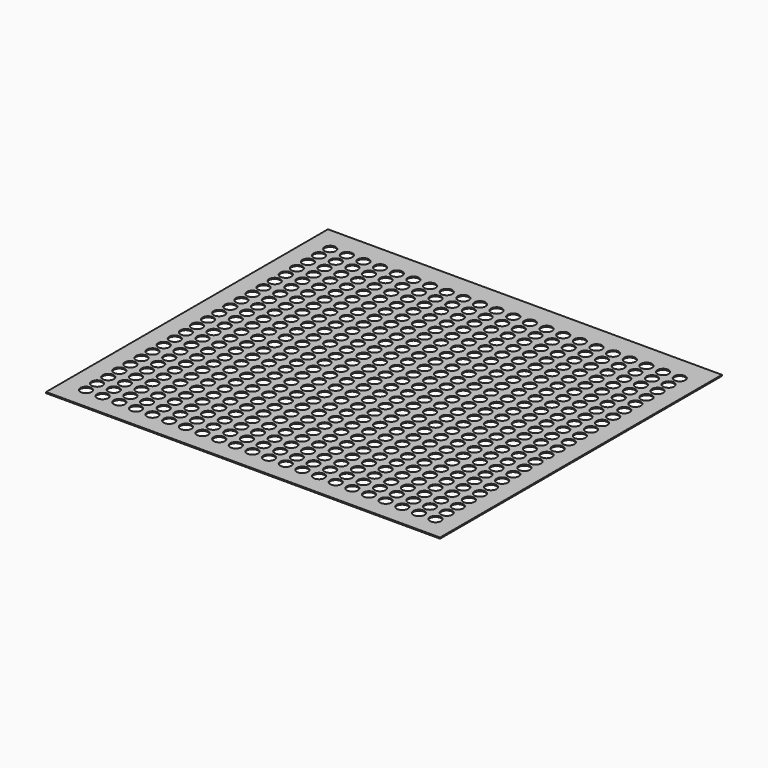
from build123d import *

# Parameters (mm, degrees)
F0_W     = 710
F0_H     = 635
F0_R     = 10
F1_DEPTH = 2


with BuildPart() as f1:
    # F0 (on Top) → F1 (new body)
    with BuildSketch(Plane.XY):
        Rectangle(F0_W, F0_H)
        with Locations((-315, -277.5)):
            Circle(F0_R, mode=Mode.SUBTRACT)
        with Locations((-315, -252.5)):
            Circle(F0_R, mode=Mode.SUBTRACT)
        with Locations((-285, -277.5)):
            Circle(F0_R, mode=Mode.SUBTRACT)
        with Locations((-285, -252.5)):
            Circle(F0_R, mode=Mode.SUBTRACT)
        with Locations((-255, -277.5)):
            Circle(F0_R, mode=Mode.SUBTRACT)
        with Locations((-225, -277.5)):
            Circle(F0_R, mode=Mode.SUBTRACT)
        with Locations((-255, -252.5)):
            Circle(F0_R, mode=Mode.SUBTRACT)
        with Locations((-225, -252.5)):
            Circle(F0_R, mode=Mode.SUBTRACT)
        with Locations((-195, -277.5)):
            Circle(F0_R, mode=Mode.SUBTRACT)
        with Locations((-195, -252.5)):
            Circle(F0_R, mode=Mode.SUBTRACT)
        with Locations((-315, -227.5)):
            Circle(F0_R, mode=Mode.SUBTRACT)
        with Locations((-315, -202.5)):
            Circle(F0_R, mode=Mode.SUBTRACT)
        with Locations((-285, -227.5)):
            Circle(F0_R, mode=Mode.SUBTRACT)
        with Locations((-285, -202.5)):
            Circle(F0_R, mode=Mode.SUBTRACT)
        with Locations((-315, -177.5)):
            Circle(F0_R, mode=Mode.SUBTRACT)
        with Locations((-285, -177.5)):
            Circle(F0_R, mode=Mode.SUBTRACT)
        with Locations((-255, -227.5)):
            Circle(F0_R, mode=Mode.SUBTRACT)
        with Locations((-225, -227.5)):
            Circle(F0_R, mode=Mode.SUBTRACT)
        with Locations((-255, -202.5)):
            Circle(F0_R, mode=Mode.SUBTRACT)
        with Locations((-225, -202.5)):
            Circle(F0_R, mode=Mode.SUBTRACT)
        with Locations((-195, -227.5)):
            Circle(F0_R, mode=Mode.SUBTRACT)
        with Locations((-195, -202.5)):
            Circle(F0_R, mode=Mode.SUBTRACT)
        with Locations((-255, -177.5)):
            Circle(F0_R, mode=Mode.SUBTRACT)
        with Locations((-225, -177.5)):
            Circle(F0_R, mode=Mode.SUBTRACT)
        with Locations((-195, -177.5)):
            Circle(F0_R, mode=Mode.SUBTRACT)
        with Locations((-165, -277.5)):
            Circle(F0_R, mode=Mode.SUBTRACT)
        with Locations((-135, -277.5)):
            Circle(F0_R, mode=Mode.SUBTRACT)
        with Locations((-165, -252.5)):
            Circle(F0_R, mode=Mode.SUBTRACT)
        with Locations((-135, -252.5)):
            Circle(F0_R, mode=Mode.SUBTRACT)
        with Locations((-105, -277.5)):
            Circle(F0_R, mode=Mode.SUBTRACT)
        with Locations((-105, -252.5)):
            Circle(F0_R, mode=Mode.SUBTRACT)
        with Locations((-75, -277.5)):
            Circle(F0_R, mode=Mode.SUBTRACT)
        with Locations((-45, -277.5)):
            Circle(F0_R, mode=Mode.SUBTRACT)
        with Locations((-75, -252.5)):
            Circle(F0_R, mode=Mode.SUBTRACT)
        with Locations((-45, -252.5)):
            Circle(F0_R, mode=Mode.SUBTRACT)
        with Locations((-15, -277.5)):
            Circle(F0_R, mode=Mode.SUBTRACT)
        with Locations((-15, -252.5)):
            Circle(F0_R, mode=Mode.SUBTRACT)
        with Locations((-165, -227.5)):
            Circle(F0_R, mode=Mode.SUBTRACT)
        with Locations((-135, -227.5)):
            Circle(F0_R, mode=Mode.SUBTRACT)
        with Locations((-165, -202.5)):
            Circle(F0_R, mode=Mode.SUBTRACT)
        with Locations((-135, -202.5)):
            Circle(F0_R, mode=Mode.SUBTRACT)
        with Locations((-105, -227.5)):
            Circle(F0_R, mode=Mode.SUBTRACT)
        with Locations((-105, -202.5)):
            Circle(F0_R, mode=Mode.SUBTRACT)
        with Locations((-165, -177.5)):
            Circle(F0_R, mode=Mode.SUBTRACT)
        with Locations((-135, -177.5)):
            Circle(F0_R, mode=Mode.SUBTRACT)
        with Locations((-105, -177.5)):
            Circle(F0_R, mode=Mode.SUBTRACT)
        with Locations((-75, -227.5)):
            Circle(F0_R, mode=Mode.SUBTRACT)
        with Locations((-45, -227.5)):
            Circle(F0_R, mode=Mode.SUBTRACT)
        with Locations((-75, -202.5)):
            Circle(F0_R, mode=Mode.SUBTRACT)
        with Locations((-45, -202.5)):
            Circle(F0_R, mode=Mode.SUBTRACT)
        with Locations((-15, -227.5)):
            Circle(F0_R, mode=Mode.SUBTRACT)
        with Locations((-15, -202.5)):
            Circle(F0_R, mode=Mode.SUBTRACT)
        with Locations((-75, -177.5)):
            Circle(F0_R, mode=Mode.SUBTRACT)
        with Locations((-45, -177.5)):
            Circle(F0_R, mode=Mode.SUBTRACT)
        with Locations((-15, -177.5)):
            Circle(F0_R, mode=Mode.SUBTRACT)
        with Locations((-315, -152.5)):
            Circle(F0_R, mode=Mode.SUBTRACT)
        with Locations((-315, -127.5)):
            Circle(F0_R, mode=Mode.SUBTRACT)
        with Locations((-285, -152.5)):
            Circle(F0_R, mode=Mode.SUBTRACT)
        with Locations((-285, -127.5)):
            Circle(F0_R, mode=Mode.SUBTRACT)
        with Locations((-315, -102.5)):
            Circle(F0_R, mode=Mode.SUBTRACT)
        with Locations((-285, -102.5)):
            Circle(F0_R, mode=Mode.SUBTRACT)
        with Locations((-255, -152.5)):
            Circle(F0_R, mode=Mode.SUBTRACT)
        with Locations((-225, -152.5)):
            Circle(F0_R, mode=Mode.SUBTRACT)
        with Locations((-255, -127.5)):
            Circle(F0_R, mode=Mode.SUBTRACT)
        with Locations((-225, -127.5)):
            Circle(F0_R, mode=Mode.SUBTRACT)
        with Locations((-195, -152.5)):
            Circle(F0_R, mode=Mode.SUBTRACT)
        with Locations((-195, -127.5)):
            Circle(F0_R, mode=Mode.SUBTRACT)
        with Locations((-255, -102.5)):
            Circle(F0_R, mode=Mode.SUBTRACT)
        with Locations((-225, -102.5)):
            Circle(F0_R, mode=Mode.SUBTRACT)
        with Locations((-195, -102.5)):
            Circle(F0_R, mode=Mode.SUBTRACT)
        with Locations((-315, -77.5)):
            Circle(F0_R, mode=Mode.SUBTRACT)
        with Locations((-315, -52.5)):
            Circle(F0_R, mode=Mode.SUBTRACT)
        with Locations((-285, -77.5)):
            Circle(F0_R, mode=Mode.SUBTRACT)
        with Locations((-285, -52.5)):
            Circle(F0_R, mode=Mode.SUBTRACT)
        with Locations((-315, -27.5)):
            Circle(F0_R, mode=Mode.SUBTRACT)
        with Locations((-315, -2.5)):
            Circle(F0_R, mode=Mode.SUBTRACT)
        with Locations((-285, -27.5)):
            Circle(F0_R, mode=Mode.SUBTRACT)
        with Locations((-285, -2.5)):
            Circle(F0_R, mode=Mode.SUBTRACT)
        with Locations((-255, -77.5)):
            Circle(F0_R, mode=Mode.SUBTRACT)
        with Locations((-225, -77.5)):
            Circle(F0_R, mode=Mode.SUBTRACT)
        with Locations((-255, -52.5)):
            Circle(F0_R, mode=Mode.SUBTRACT)
        with Locations((-225, -52.5)):
            Circle(F0_R, mode=Mode.SUBTRACT)
        with Locations((-195, -77.5)):
            Circle(F0_R, mode=Mode.SUBTRACT)
        with Locations((-195, -52.5)):
            Circle(F0_R, mode=Mode.SUBTRACT)
        with Locations((-255, -27.5)):
            Circle(F0_R, mode=Mode.SUBTRACT)
        with Locations((-225, -27.5)):
            Circle(F0_R, mode=Mode.SUBTRACT)
        with Locations((-255, -2.5)):
            Circle(F0_R, mode=Mode.SUBTRACT)
        with Locations((-225, -2.5)):
            Circle(F0_R, mode=Mode.SUBTRACT)
        with Locations((-195, -27.5)):
            Circle(F0_R, mode=Mode.SUBTRACT)
        with Locations((-195, -2.5)):
            Circle(F0_R, mode=Mode.SUBTRACT)
        with Locations((-165, -152.5)):
            Circle(F0_R, mode=Mode.SUBTRACT)
        with Locations((-135, -152.5)):
            Circle(F0_R, mode=Mode.SUBTRACT)
        with Locations((-165, -127.5)):
            Circle(F0_R, mode=Mode.SUBTRACT)
        with Locations((-135, -127.5)):
            Circle(F0_R, mode=Mode.SUBTRACT)
        with Locations((-105, -152.5)):
            Circle(F0_R, mode=Mode.SUBTRACT)
        with Locations((-105, -127.5)):
            Circle(F0_R, mode=Mode.SUBTRACT)
        with Locations((-165, -102.5)):
            Circle(F0_R, mode=Mode.SUBTRACT)
        with Locations((-135, -102.5)):
            Circle(F0_R, mode=Mode.SUBTRACT)
        with Locations((-105, -102.5)):
            Circle(F0_R, mode=Mode.SUBTRACT)
        with Locations((-75, -152.5)):
            Circle(F0_R, mode=Mode.SUBTRACT)
        with Locations((-45, -152.5)):
            Circle(F0_R, mode=Mode.SUBTRACT)
        with Locations((-75, -127.5)):
            Circle(F0_R, mode=Mode.SUBTRACT)
        with Locations((-45, -127.5)):
            Circle(F0_R, mode=Mode.SUBTRACT)
        with Locations((-15, -152.5)):
            Circle(F0_R, mode=Mode.SUBTRACT)
        with Locations((-15, -127.5)):
            Circle(F0_R, mode=Mode.SUBTRACT)
        with Locations((-75, -102.5)):
            Circle(F0_R, mode=Mode.SUBTRACT)
        with Locations((-45, -102.5)):
            Circle(F0_R, mode=Mode.SUBTRACT)
        with Locations((-15, -102.5)):
            Circle(F0_R, mode=Mode.SUBTRACT)
        with Locations((-165, -77.5)):
            Circle(F0_R, mode=Mode.SUBTRACT)
        with Locations((-135, -77.5)):
            Circle(F0_R, mode=Mode.SUBTRACT)
        with Locations((-165, -52.5)):
            Circle(F0_R, mode=Mode.SUBTRACT)
        with Locations((-135, -52.5)):
            Circle(F0_R, mode=Mode.SUBTRACT)
        with Locations((-105, -77.5)):
            Circle(F0_R, mode=Mode.SUBTRACT)
        with Locations((-105, -52.5)):
            Circle(F0_R, mode=Mode.SUBTRACT)
        with Locations((-165, -27.5)):
            Circle(F0_R, mode=Mode.SUBTRACT)
        with Locations((-135, -27.5)):
            Circle(F0_R, mode=Mode.SUBTRACT)
        with Locations((-165, -2.5)):
            Circle(F0_R, mode=Mode.SUBTRACT)
        with Locations((-135, -2.5)):
            Circle(F0_R, mode=Mode.SUBTRACT)
        with Locations((-105, -27.5)):
            Circle(F0_R, mode=Mode.SUBTRACT)
        with Locations((-105, -2.5)):
            Circle(F0_R, mode=Mode.SUBTRACT)
        with Locations((-75, -77.5)):
            Circle(F0_R, mode=Mode.SUBTRACT)
        with Locations((-45, -77.5)):
            Circle(F0_R, mode=Mode.SUBTRACT)
        with Locations((-75, -52.5)):
            Circle(F0_R, mode=Mode.SUBTRACT)
        with Locations((-45, -52.5)):
            Circle(F0_R, mode=Mode.SUBTRACT)
        with Locations((-15, -77.5)):
            Circle(F0_R, mode=Mode.SUBTRACT)
        with Locations((-15, -52.5)):
            Circle(F0_R, mode=Mode.SUBTRACT)
        with Locations((-75, -27.5)):
            Circle(F0_R, mode=Mode.SUBTRACT)
        with Locations((-45, -27.5)):
            Circle(F0_R, mode=Mode.SUBTRACT)
        with Locations((-75, -2.5)):
            Circle(F0_R, mode=Mode.SUBTRACT)
        with Locations((-45, -2.5)):
            Circle(F0_R, mode=Mode.SUBTRACT)
        with Locations((-15, -27.5)):
            Circle(F0_R, mode=Mode.SUBTRACT)
        with Locations((-15, -2.5)):
            Circle(F0_R, mode=Mode.SUBTRACT)
        with Locations((15, -277.5)):
            Circle(F0_R, mode=Mode.SUBTRACT)
        with Locations((15, -252.5)):
            Circle(F0_R, mode=Mode.SUBTRACT)
        with Locations((45, -277.5)):
            Circle(F0_R, mode=Mode.SUBTRACT)
        with Locations((75, -277.5)):
            Circle(F0_R, mode=Mode.SUBTRACT)
        with Locations((45, -252.5)):
            Circle(F0_R, mode=Mode.SUBTRACT)
        with Locations((75, -252.5)):
            Circle(F0_R, mode=Mode.SUBTRACT)
        with Locations((105, -277.5)):
            Circle(F0_R, mode=Mode.SUBTRACT)
        with Locations((105, -252.5)):
            Circle(F0_R, mode=Mode.SUBTRACT)
        with Locations((135, -277.5)):
            Circle(F0_R, mode=Mode.SUBTRACT)
        with Locations((165, -277.5)):
            Circle(F0_R, mode=Mode.SUBTRACT)
        with Locations((135, -252.5)):
            Circle(F0_R, mode=Mode.SUBTRACT)
        with Locations((165, -252.5)):
            Circle(F0_R, mode=Mode.SUBTRACT)
        with Locations((15, -227.5)):
            Circle(F0_R, mode=Mode.SUBTRACT)
        with Locations((15, -202.5)):
            Circle(F0_R, mode=Mode.SUBTRACT)
        with Locations((45, -227.5)):
            Circle(F0_R, mode=Mode.SUBTRACT)
        with Locations((75, -227.5)):
            Circle(F0_R, mode=Mode.SUBTRACT)
        with Locations((45, -202.5)):
            Circle(F0_R, mode=Mode.SUBTRACT)
        with Locations((75, -202.5)):
            Circle(F0_R, mode=Mode.SUBTRACT)
        with Locations((15, -177.5)):
            Circle(F0_R, mode=Mode.SUBTRACT)
        with Locations((45, -177.5)):
            Circle(F0_R, mode=Mode.SUBTRACT)
        with Locations((75, -177.5)):
            Circle(F0_R, mode=Mode.SUBTRACT)
        with Locations((105, -227.5)):
            Circle(F0_R, mode=Mode.SUBTRACT)
        with Locations((105, -202.5)):
            Circle(F0_R, mode=Mode.SUBTRACT)
        with Locations((135, -227.5)):
            Circle(F0_R, mode=Mode.SUBTRACT)
        with Locations((165, -227.5)):
            Circle(F0_R, mode=Mode.SUBTRACT)
        with Locations((135, -202.5)):
            Circle(F0_R, mode=Mode.SUBTRACT)
        with Locations((165, -202.5)):
            Circle(F0_R, mode=Mode.SUBTRACT)
        with Locations((105, -177.5)):
            Circle(F0_R, mode=Mode.SUBTRACT)
        with Locations((135, -177.5)):
            Circle(F0_R, mode=Mode.SUBTRACT)
        with Locations((165, -177.5)):
            Circle(F0_R, mode=Mode.SUBTRACT)
        with Locations((195, -277.5)):
            Circle(F0_R, mode=Mode.SUBTRACT)
        with Locations((195, -252.5)):
            Circle(F0_R, mode=Mode.SUBTRACT)
        with Locations((225, -277.5)):
            Circle(F0_R, mode=Mode.SUBTRACT)
        with Locations((255, -277.5)):
            Circle(F0_R, mode=Mode.SUBTRACT)
        with Locations((225, -252.5)):
            Circle(F0_R, mode=Mode.SUBTRACT)
        with Locations((255, -252.5)):
            Circle(F0_R, mode=Mode.SUBTRACT)
        with Locations((285, -277.5)):
            Circle(F0_R, mode=Mode.SUBTRACT)
        with Locations((285, -252.5)):
            Circle(F0_R, mode=Mode.SUBTRACT)
        with Locations((315, -277.5)):
            Circle(F0_R, mode=Mode.SUBTRACT)
        with Locations((315, -252.5)):
            Circle(F0_R, mode=Mode.SUBTRACT)
        with Locations((195, -227.5)):
            Circle(F0_R, mode=Mode.SUBTRACT)
        with Locations((195, -202.5)):
            Circle(F0_R, mode=Mode.SUBTRACT)
        with Locations((225, -227.5)):
            Circle(F0_R, mode=Mode.SUBTRACT)
        with Locations((255, -227.5)):
            Circle(F0_R, mode=Mode.SUBTRACT)
        with Locations((225, -202.5)):
            Circle(F0_R, mode=Mode.SUBTRACT)
        with Locations((255, -202.5)):
            Circle(F0_R, mode=Mode.SUBTRACT)
        with Locations((195, -177.5)):
            Circle(F0_R, mode=Mode.SUBTRACT)
        with Locations((225, -177.5)):
            Circle(F0_R, mode=Mode.SUBTRACT)
        with Locations((255, -177.5)):
            Circle(F0_R, mode=Mode.SUBTRACT)
        with Locations((285, -227.5)):
            Circle(F0_R, mode=Mode.SUBTRACT)
        with Locations((285, -202.5)):
            Circle(F0_R, mode=Mode.SUBTRACT)
        with Locations((315, -227.5)):
            Circle(F0_R, mode=Mode.SUBTRACT)
        with Locations((315, -202.5)):
            Circle(F0_R, mode=Mode.SUBTRACT)
        with Locations((285, -177.5)):
            Circle(F0_R, mode=Mode.SUBTRACT)
        with Locations((315, -177.5)):
            Circle(F0_R, mode=Mode.SUBTRACT)
        with Locations((15, -152.5)):
            Circle(F0_R, mode=Mode.SUBTRACT)
        with Locations((15, -127.5)):
            Circle(F0_R, mode=Mode.SUBTRACT)
        with Locations((45, -152.5)):
            Circle(F0_R, mode=Mode.SUBTRACT)
        with Locations((75, -152.5)):
            Circle(F0_R, mode=Mode.SUBTRACT)
        with Locations((45, -127.5)):
            Circle(F0_R, mode=Mode.SUBTRACT)
        with Locations((75, -127.5)):
            Circle(F0_R, mode=Mode.SUBTRACT)
        with Locations((15, -102.5)):
            Circle(F0_R, mode=Mode.SUBTRACT)
        with Locations((45, -102.5)):
            Circle(F0_R, mode=Mode.SUBTRACT)
        with Locations((75, -102.5)):
            Circle(F0_R, mode=Mode.SUBTRACT)
        with Locations((105, -152.5)):
            Circle(F0_R, mode=Mode.SUBTRACT)
        with Locations((105, -127.5)):
            Circle(F0_R, mode=Mode.SUBTRACT)
        with Locations((135, -152.5)):
            Circle(F0_R, mode=Mode.SUBTRACT)
        with Locations((165, -152.5)):
            Circle(F0_R, mode=Mode.SUBTRACT)
        with Locations((135, -127.5)):
            Circle(F0_R, mode=Mode.SUBTRACT)
        with Locations((165, -127.5)):
            Circle(F0_R, mode=Mode.SUBTRACT)
        with Locations((105, -102.5)):
            Circle(F0_R, mode=Mode.SUBTRACT)
        with Locations((135, -102.5)):
            Circle(F0_R, mode=Mode.SUBTRACT)
        with Locations((165, -102.5)):
            Circle(F0_R, mode=Mode.SUBTRACT)
        with Locations((15, -77.5)):
            Circle(F0_R, mode=Mode.SUBTRACT)
        with Locations((15, -52.5)):
            Circle(F0_R, mode=Mode.SUBTRACT)
        with Locations((45, -77.5)):
            Circle(F0_R, mode=Mode.SUBTRACT)
        with Locations((75, -77.5)):
            Circle(F0_R, mode=Mode.SUBTRACT)
        with Locations((45, -52.5)):
            Circle(F0_R, mode=Mode.SUBTRACT)
        with Locations((75, -52.5)):
            Circle(F0_R, mode=Mode.SUBTRACT)
        with Locations((15, -27.5)):
            Circle(F0_R, mode=Mode.SUBTRACT)
        with Locations((15, -2.5)):
            Circle(F0_R, mode=Mode.SUBTRACT)
        with Locations((45, -27.5)):
            Circle(F0_R, mode=Mode.SUBTRACT)
        with Locations((75, -27.5)):
            Circle(F0_R, mode=Mode.SUBTRACT)
        with Locations((45, -2.5)):
            Circle(F0_R, mode=Mode.SUBTRACT)
        with Locations((75, -2.5)):
            Circle(F0_R, mode=Mode.SUBTRACT)
        with Locations((105, -77.5)):
            Circle(F0_R, mode=Mode.SUBTRACT)
        with Locations((105, -52.5)):
            Circle(F0_R, mode=Mode.SUBTRACT)
        with Locations((135, -77.5)):
            Circle(F0_R, mode=Mode.SUBTRACT)
        with Locations((165, -77.5)):
            Circle(F0_R, mode=Mode.SUBTRACT)
        with Locations((135, -52.5)):
            Circle(F0_R, mode=Mode.SUBTRACT)
        with Locations((165, -52.5)):
            Circle(F0_R, mode=Mode.SUBTRACT)
        with Locations((105, -27.5)):
            Circle(F0_R, mode=Mode.SUBTRACT)
        with Locations((105, -2.5)):
            Circle(F0_R, mode=Mode.SUBTRACT)
        with Locations((135, -27.5)):
            Circle(F0_R, mode=Mode.SUBTRACT)
        with Locations((165, -27.5)):
            Circle(F0_R, mode=Mode.SUBTRACT)
        with Locations((135, -2.5)):
            Circle(F0_R, mode=Mode.SUBTRACT)
        with Locations((165, -2.5)):
            Circle(F0_R, mode=Mode.SUBTRACT)
        with Locations((195, -152.5)):
            Circle(F0_R, mode=Mode.SUBTRACT)
        with Locations((195, -127.5)):
            Circle(F0_R, mode=Mode.SUBTRACT)
        with Locations((225, -152.5)):
            Circle(F0_R, mode=Mode.SUBTRACT)
        with Locations((255, -152.5)):
            Circle(F0_R, mode=Mode.SUBTRACT)
        with Locations((225, -127.5)):
            Circle(F0_R, mode=Mode.SUBTRACT)
        with Locations((255, -127.5)):
            Circle(F0_R, mode=Mode.SUBTRACT)
        with Locations((195, -102.5)):
            Circle(F0_R, mode=Mode.SUBTRACT)
        with Locations((225, -102.5)):
            Circle(F0_R, mode=Mode.SUBTRACT)
        with Locations((255, -102.5)):
            Circle(F0_R, mode=Mode.SUBTRACT)
        with Locations((285, -152.5)):
            Circle(F0_R, mode=Mode.SUBTRACT)
        with Locations((285, -127.5)):
            Circle(F0_R, mode=Mode.SUBTRACT)
        with Locations((315, -152.5)):
            Circle(F0_R, mode=Mode.SUBTRACT)
        with Locations((315, -127.5)):
            Circle(F0_R, mode=Mode.SUBTRACT)
        with Locations((285, -102.5)):
            Circle(F0_R, mode=Mode.SUBTRACT)
        with Locations((315, -102.5)):
            Circle(F0_R, mode=Mode.SUBTRACT)
        with Locations((195, -77.5)):
            Circle(F0_R, mode=Mode.SUBTRACT)
        with Locations((195, -52.5)):
            Circle(F0_R, mode=Mode.SUBTRACT)
        with Locations((225, -77.5)):
            Circle(F0_R, mode=Mode.SUBTRACT)
        with Locations((255, -77.5)):
            Circle(F0_R, mode=Mode.SUBTRACT)
        with Locations((225, -52.5)):
            Circle(F0_R, mode=Mode.SUBTRACT)
        with Locations((255, -52.5)):
            Circle(F0_R, mode=Mode.SUBTRACT)
        with Locations((195, -27.5)):
            Circle(F0_R, mode=Mode.SUBTRACT)
        with Locations((195, -2.5)):
            Circle(F0_R, mode=Mode.SUBTRACT)
        with Locations((225, -27.5)):
            Circle(F0_R, mode=Mode.SUBTRACT)
        with Locations((255, -27.5)):
            Circle(F0_R, mode=Mode.SUBTRACT)
        with Locations((225, -2.5)):
            Circle(F0_R, mode=Mode.SUBTRACT)
        with Locations((255, -2.5)):
            Circle(F0_R, mode=Mode.SUBTRACT)
        with Locations((285, -77.5)):
            Circle(F0_R, mode=Mode.SUBTRACT)
        with Locations((285, -52.5)):
            Circle(F0_R, mode=Mode.SUBTRACT)
        with Locations((315, -77.5)):
            Circle(F0_R, mode=Mode.SUBTRACT)
        with Locations((315, -52.5)):
            Circle(F0_R, mode=Mode.SUBTRACT)
        with Locations((285, -27.5)):
            Circle(F0_R, mode=Mode.SUBTRACT)
        with Locations((285, -2.5)):
            Circle(F0_R, mode=Mode.SUBTRACT)
        with Locations((315, -27.5)):
            Circle(F0_R, mode=Mode.SUBTRACT)
        with Locations((315, -2.5)):
            Circle(F0_R, mode=Mode.SUBTRACT)
        with Locations((-315, 22.5)):
            Circle(F0_R, mode=Mode.SUBTRACT)
        with Locations((-285, 22.5)):
            Circle(F0_R, mode=Mode.SUBTRACT)
        with Locations((-315, 47.5)):
            Circle(F0_R, mode=Mode.SUBTRACT)
        with Locations((-315, 72.5)):
            Circle(F0_R, mode=Mode.SUBTRACT)
        with Locations((-285, 47.5)):
            Circle(F0_R, mode=Mode.SUBTRACT)
        with Locations((-285, 72.5)):
            Circle(F0_R, mode=Mode.SUBTRACT)
        with Locations((-255, 22.5)):
            Circle(F0_R, mode=Mode.SUBTRACT)
        with Locations((-225, 22.5)):
            Circle(F0_R, mode=Mode.SUBTRACT)
        with Locations((-195, 22.5)):
            Circle(F0_R, mode=Mode.SUBTRACT)
        with Locations((-255, 47.5)):
            Circle(F0_R, mode=Mode.SUBTRACT)
        with Locations((-225, 47.5)):
            Circle(F0_R, mode=Mode.SUBTRACT)
        with Locations((-255, 72.5)):
            Circle(F0_R, mode=Mode.SUBTRACT)
        with Locations((-225, 72.5)):
            Circle(F0_R, mode=Mode.SUBTRACT)
        with Locations((-195, 47.5)):
            Circle(F0_R, mode=Mode.SUBTRACT)
        with Locations((-195, 72.5)):
            Circle(F0_R, mode=Mode.SUBTRACT)
        with Locations((-315, 97.5)):
            Circle(F0_R, mode=Mode.SUBTRACT)
        with Locations((-285, 97.5)):
            Circle(F0_R, mode=Mode.SUBTRACT)
        with Locations((-315, 122.5)):
            Circle(F0_R, mode=Mode.SUBTRACT)
        with Locations((-315, 147.5)):
            Circle(F0_R, mode=Mode.SUBTRACT)
        with Locations((-285, 122.5)):
            Circle(F0_R, mode=Mode.SUBTRACT)
        with Locations((-285, 147.5)):
            Circle(F0_R, mode=Mode.SUBTRACT)
        with Locations((-255, 97.5)):
            Circle(F0_R, mode=Mode.SUBTRACT)
        with Locations((-225, 97.5)):
            Circle(F0_R, mode=Mode.SUBTRACT)
        with Locations((-195, 97.5)):
            Circle(F0_R, mode=Mode.SUBTRACT)
        with Locations((-255, 122.5)):
            Circle(F0_R, mode=Mode.SUBTRACT)
        with Locations((-225, 122.5)):
            Circle(F0_R, mode=Mode.SUBTRACT)
        with Locations((-255, 147.5)):
            Circle(F0_R, mode=Mode.SUBTRACT)
        with Locations((-225, 147.5)):
            Circle(F0_R, mode=Mode.SUBTRACT)
        with Locations((-195, 122.5)):
            Circle(F0_R, mode=Mode.SUBTRACT)
        with Locations((-195, 147.5)):
            Circle(F0_R, mode=Mode.SUBTRACT)
        with Locations((-165, 22.5)):
            Circle(F0_R, mode=Mode.SUBTRACT)
        with Locations((-135, 22.5)):
            Circle(F0_R, mode=Mode.SUBTRACT)
        with Locations((-105, 22.5)):
            Circle(F0_R, mode=Mode.SUBTRACT)
        with Locations((-165, 47.5)):
            Circle(F0_R, mode=Mode.SUBTRACT)
        with Locations((-135, 47.5)):
            Circle(F0_R, mode=Mode.SUBTRACT)
        with Locations((-165, 72.5)):
            Circle(F0_R, mode=Mode.SUBTRACT)
        with Locations((-135, 72.5)):
            Circle(F0_R, mode=Mode.SUBTRACT)
        with Locations((-105, 47.5)):
            Circle(F0_R, mode=Mode.SUBTRACT)
        with Locations((-105, 72.5)):
            Circle(F0_R, mode=Mode.SUBTRACT)
        with Locations((-75, 22.5)):
            Circle(F0_R, mode=Mode.SUBTRACT)
        with Locations((-45, 22.5)):
            Circle(F0_R, mode=Mode.SUBTRACT)
        with Locations((-15, 22.5)):
            Circle(F0_R, mode=Mode.SUBTRACT)
        with Locations((-75, 47.5)):
            Circle(F0_R, mode=Mode.SUBTRACT)
        with Locations((-45, 47.5)):
            Circle(F0_R, mode=Mode.SUBTRACT)
        with Locations((-75, 72.5)):
            Circle(F0_R, mode=Mode.SUBTRACT)
        with Locations((-45, 72.5)):
            Circle(F0_R, mode=Mode.SUBTRACT)
        with Locations((-15, 47.5)):
            Circle(F0_R, mode=Mode.SUBTRACT)
        with Locations((-15, 72.5)):
            Circle(F0_R, mode=Mode.SUBTRACT)
        with Locations((-165, 97.5)):
            Circle(F0_R, mode=Mode.SUBTRACT)
        with Locations((-135, 97.5)):
            Circle(F0_R, mode=Mode.SUBTRACT)
        with Locations((-105, 97.5)):
            Circle(F0_R, mode=Mode.SUBTRACT)
        with Locations((-165, 122.5)):
            Circle(F0_R, mode=Mode.SUBTRACT)
        with Locations((-135, 122.5)):
            Circle(F0_R, mode=Mode.SUBTRACT)
        with Locations((-165, 147.5)):
            Circle(F0_R, mode=Mode.SUBTRACT)
        with Locations((-135, 147.5)):
            Circle(F0_R, mode=Mode.SUBTRACT)
        with Locations((-105, 122.5)):
            Circle(F0_R, mode=Mode.SUBTRACT)
        with Locations((-105, 147.5)):
            Circle(F0_R, mode=Mode.SUBTRACT)
        with Locations((-75, 97.5)):
            Circle(F0_R, mode=Mode.SUBTRACT)
        with Locations((-45, 97.5)):
            Circle(F0_R, mode=Mode.SUBTRACT)
        with Locations((-15, 97.5)):
            Circle(F0_R, mode=Mode.SUBTRACT)
        with Locations((-75, 122.5)):
            Circle(F0_R, mode=Mode.SUBTRACT)
        with Locations((-45, 122.5)):
            Circle(F0_R, mode=Mode.SUBTRACT)
        with Locations((-75, 147.5)):
            Circle(F0_R, mode=Mode.SUBTRACT)
        with Locations((-45, 147.5)):
            Circle(F0_R, mode=Mode.SUBTRACT)
        with Locations((-15, 122.5)):
            Circle(F0_R, mode=Mode.SUBTRACT)
        with Locations((-15, 147.5)):
            Circle(F0_R, mode=Mode.SUBTRACT)
        with Locations((-315, 172.5)):
            Circle(F0_R, mode=Mode.SUBTRACT)
        with Locations((-315, 197.5)):
            Circle(F0_R, mode=Mode.SUBTRACT)
        with Locations((-285, 172.5)):
            Circle(F0_R, mode=Mode.SUBTRACT)
        with Locations((-285, 197.5)):
            Circle(F0_R, mode=Mode.SUBTRACT)
        with Locations((-315, 222.5)):
            Circle(F0_R, mode=Mode.SUBTRACT)
        with Locations((-285, 222.5)):
            Circle(F0_R, mode=Mode.SUBTRACT)
        with Locations((-255, 172.5)):
            Circle(F0_R, mode=Mode.SUBTRACT)
        with Locations((-225, 172.5)):
            Circle(F0_R, mode=Mode.SUBTRACT)
        with Locations((-255, 197.5)):
            Circle(F0_R, mode=Mode.SUBTRACT)
        with Locations((-225, 197.5)):
            Circle(F0_R, mode=Mode.SUBTRACT)
        with Locations((-195, 172.5)):
            Circle(F0_R, mode=Mode.SUBTRACT)
        with Locations((-195, 197.5)):
            Circle(F0_R, mode=Mode.SUBTRACT)
        with Locations((-255, 222.5)):
            Circle(F0_R, mode=Mode.SUBTRACT)
        with Locations((-225, 222.5)):
            Circle(F0_R, mode=Mode.SUBTRACT)
        with Locations((-195, 222.5)):
            Circle(F0_R, mode=Mode.SUBTRACT)
        with Locations((-315, 247.5)):
            Circle(F0_R, mode=Mode.SUBTRACT)
        with Locations((-315, 272.5)):
            Circle(F0_R, mode=Mode.SUBTRACT)
        with Locations((-285, 247.5)):
            Circle(F0_R, mode=Mode.SUBTRACT)
        with Locations((-285, 272.5)):
            Circle(F0_R, mode=Mode.SUBTRACT)
        with Locations((-255, 247.5)):
            Circle(F0_R, mode=Mode.SUBTRACT)
        with Locations((-225, 247.5)):
            Circle(F0_R, mode=Mode.SUBTRACT)
        with Locations((-255, 272.5)):
            Circle(F0_R, mode=Mode.SUBTRACT)
        with Locations((-225, 272.5)):
            Circle(F0_R, mode=Mode.SUBTRACT)
        with Locations((-195, 247.5)):
            Circle(F0_R, mode=Mode.SUBTRACT)
        with Locations((-195, 272.5)):
            Circle(F0_R, mode=Mode.SUBTRACT)
        with Locations((-165, 172.5)):
            Circle(F0_R, mode=Mode.SUBTRACT)
        with Locations((-135, 172.5)):
            Circle(F0_R, mode=Mode.SUBTRACT)
        with Locations((-165, 197.5)):
            Circle(F0_R, mode=Mode.SUBTRACT)
        with Locations((-135, 197.5)):
            Circle(F0_R, mode=Mode.SUBTRACT)
        with Locations((-105, 172.5)):
            Circle(F0_R, mode=Mode.SUBTRACT)
        with Locations((-105, 197.5)):
            Circle(F0_R, mode=Mode.SUBTRACT)
        with Locations((-165, 222.5)):
            Circle(F0_R, mode=Mode.SUBTRACT)
        with Locations((-135, 222.5)):
            Circle(F0_R, mode=Mode.SUBTRACT)
        with Locations((-105, 222.5)):
            Circle(F0_R, mode=Mode.SUBTRACT)
        with Locations((-75, 172.5)):
            Circle(F0_R, mode=Mode.SUBTRACT)
        with Locations((-45, 172.5)):
            Circle(F0_R, mode=Mode.SUBTRACT)
        with Locations((-75, 197.5)):
            Circle(F0_R, mode=Mode.SUBTRACT)
        with Locations((-45, 197.5)):
            Circle(F0_R, mode=Mode.SUBTRACT)
        with Locations((-15, 172.5)):
            Circle(F0_R, mode=Mode.SUBTRACT)
        with Locations((-15, 197.5)):
            Circle(F0_R, mode=Mode.SUBTRACT)
        with Locations((-75, 222.5)):
            Circle(F0_R, mode=Mode.SUBTRACT)
        with Locations((-45, 222.5)):
            Circle(F0_R, mode=Mode.SUBTRACT)
        with Locations((-15, 222.5)):
            Circle(F0_R, mode=Mode.SUBTRACT)
        with Locations((-165, 247.5)):
            Circle(F0_R, mode=Mode.SUBTRACT)
        with Locations((-135, 247.5)):
            Circle(F0_R, mode=Mode.SUBTRACT)
        with Locations((-165, 272.5)):
            Circle(F0_R, mode=Mode.SUBTRACT)
        with Locations((-135, 272.5)):
            Circle(F0_R, mode=Mode.SUBTRACT)
        with Locations((-105, 247.5)):
            Circle(F0_R, mode=Mode.SUBTRACT)
        with Locations((-105, 272.5)):
            Circle(F0_R, mode=Mode.SUBTRACT)
        with Locations((-75, 247.5)):
            Circle(F0_R, mode=Mode.SUBTRACT)
        with Locations((-45, 247.5)):
            Circle(F0_R, mode=Mode.SUBTRACT)
        with Locations((-75, 272.5)):
            Circle(F0_R, mode=Mode.SUBTRACT)
        with Locations((-45, 272.5)):
            Circle(F0_R, mode=Mode.SUBTRACT)
        with Locations((-15, 247.5)):
            Circle(F0_R, mode=Mode.SUBTRACT)
        with Locations((-15, 272.5)):
            Circle(F0_R, mode=Mode.SUBTRACT)
        with Locations((15, 22.5)):
            Circle(F0_R, mode=Mode.SUBTRACT)
        with Locations((45, 22.5)):
            Circle(F0_R, mode=Mode.SUBTRACT)
        with Locations((75, 22.5)):
            Circle(F0_R, mode=Mode.SUBTRACT)
        with Locations((15, 47.5)):
            Circle(F0_R, mode=Mode.SUBTRACT)
        with Locations((15, 72.5)):
            Circle(F0_R, mode=Mode.SUBTRACT)
        with Locations((45, 47.5)):
            Circle(F0_R, mode=Mode.SUBTRACT)
        with Locations((75, 47.5)):
            Circle(F0_R, mode=Mode.SUBTRACT)
        with Locations((45, 72.5)):
            Circle(F0_R, mode=Mode.SUBTRACT)
        with Locations((75, 72.5)):
            Circle(F0_R, mode=Mode.SUBTRACT)
        with Locations((105, 22.5)):
            Circle(F0_R, mode=Mode.SUBTRACT)
        with Locations((135, 22.5)):
            Circle(F0_R, mode=Mode.SUBTRACT)
        with Locations((165, 22.5)):
            Circle(F0_R, mode=Mode.SUBTRACT)
        with Locations((105, 47.5)):
            Circle(F0_R, mode=Mode.SUBTRACT)
        with Locations((105, 72.5)):
            Circle(F0_R, mode=Mode.SUBTRACT)
        with Locations((135, 47.5)):
            Circle(F0_R, mode=Mode.SUBTRACT)
        with Locations((165, 47.5)):
            Circle(F0_R, mode=Mode.SUBTRACT)
        with Locations((135, 72.5)):
            Circle(F0_R, mode=Mode.SUBTRACT)
        with Locations((165, 72.5)):
            Circle(F0_R, mode=Mode.SUBTRACT)
        with Locations((15, 97.5)):
            Circle(F0_R, mode=Mode.SUBTRACT)
        with Locations((45, 97.5)):
            Circle(F0_R, mode=Mode.SUBTRACT)
        with Locations((75, 97.5)):
            Circle(F0_R, mode=Mode.SUBTRACT)
        with Locations((15, 122.5)):
            Circle(F0_R, mode=Mode.SUBTRACT)
        with Locations((15, 147.5)):
            Circle(F0_R, mode=Mode.SUBTRACT)
        with Locations((45, 122.5)):
            Circle(F0_R, mode=Mode.SUBTRACT)
        with Locations((75, 122.5)):
            Circle(F0_R, mode=Mode.SUBTRACT)
        with Locations((45, 147.5)):
            Circle(F0_R, mode=Mode.SUBTRACT)
        with Locations((75, 147.5)):
            Circle(F0_R, mode=Mode.SUBTRACT)
        with Locations((105, 97.5)):
            Circle(F0_R, mode=Mode.SUBTRACT)
        with Locations((135, 97.5)):
            Circle(F0_R, mode=Mode.SUBTRACT)
        with Locations((165, 97.5)):
            Circle(F0_R, mode=Mode.SUBTRACT)
        with Locations((105, 122.5)):
            Circle(F0_R, mode=Mode.SUBTRACT)
        with Locations((105, 147.5)):
            Circle(F0_R, mode=Mode.SUBTRACT)
        with Locations((135, 122.5)):
            Circle(F0_R, mode=Mode.SUBTRACT)
        with Locations((165, 122.5)):
            Circle(F0_R, mode=Mode.SUBTRACT)
        with Locations((135, 147.5)):
            Circle(F0_R, mode=Mode.SUBTRACT)
        with Locations((165, 147.5)):
            Circle(F0_R, mode=Mode.SUBTRACT)
        with Locations((195, 22.5)):
            Circle(F0_R, mode=Mode.SUBTRACT)
        with Locations((225, 22.5)):
            Circle(F0_R, mode=Mode.SUBTRACT)
        with Locations((255, 22.5)):
            Circle(F0_R, mode=Mode.SUBTRACT)
        with Locations((195, 47.5)):
            Circle(F0_R, mode=Mode.SUBTRACT)
        with Locations((195, 72.5)):
            Circle(F0_R, mode=Mode.SUBTRACT)
        with Locations((225, 47.5)):
            Circle(F0_R, mode=Mode.SUBTRACT)
        with Locations((255, 47.5)):
            Circle(F0_R, mode=Mode.SUBTRACT)
        with Locations((225, 72.5)):
            Circle(F0_R, mode=Mode.SUBTRACT)
        with Locations((255, 72.5)):
            Circle(F0_R, mode=Mode.SUBTRACT)
        with Locations((285, 22.5)):
            Circle(F0_R, mode=Mode.SUBTRACT)
        with Locations((315, 22.5)):
            Circle(F0_R, mode=Mode.SUBTRACT)
        with Locations((285, 47.5)):
            Circle(F0_R, mode=Mode.SUBTRACT)
        with Locations((285, 72.5)):
            Circle(F0_R, mode=Mode.SUBTRACT)
        with Locations((315, 47.5)):
            Circle(F0_R, mode=Mode.SUBTRACT)
        with Locations((315, 72.5)):
            Circle(F0_R, mode=Mode.SUBTRACT)
        with Locations((195, 97.5)):
            Circle(F0_R, mode=Mode.SUBTRACT)
        with Locations((225, 97.5)):
            Circle(F0_R, mode=Mode.SUBTRACT)
        with Locations((255, 97.5)):
            Circle(F0_R, mode=Mode.SUBTRACT)
        with Locations((195, 122.5)):
            Circle(F0_R, mode=Mode.SUBTRACT)
        with Locations((195, 147.5)):
            Circle(F0_R, mode=Mode.SUBTRACT)
        with Locations((225, 122.5)):
            Circle(F0_R, mode=Mode.SUBTRACT)
        with Locations((255, 122.5)):
            Circle(F0_R, mode=Mode.SUBTRACT)
        with Locations((225, 147.5)):
            Circle(F0_R, mode=Mode.SUBTRACT)
        with Locations((255, 147.5)):
            Circle(F0_R, mode=Mode.SUBTRACT)
        with Locations((285, 97.5)):
            Circle(F0_R, mode=Mode.SUBTRACT)
        with Locations((315, 97.5)):
            Circle(F0_R, mode=Mode.SUBTRACT)
        with Locations((285, 122.5)):
            Circle(F0_R, mode=Mode.SUBTRACT)
        with Locations((285, 147.5)):
            Circle(F0_R, mode=Mode.SUBTRACT)
        with Locations((315, 122.5)):
            Circle(F0_R, mode=Mode.SUBTRACT)
        with Locations((315, 147.5)):
            Circle(F0_R, mode=Mode.SUBTRACT)
        with Locations((15, 172.5)):
            Circle(F0_R, mode=Mode.SUBTRACT)
        with Locations((15, 197.5)):
            Circle(F0_R, mode=Mode.SUBTRACT)
        with Locations((45, 172.5)):
            Circle(F0_R, mode=Mode.SUBTRACT)
        with Locations((75, 172.5)):
            Circle(F0_R, mode=Mode.SUBTRACT)
        with Locations((45, 197.5)):
            Circle(F0_R, mode=Mode.SUBTRACT)
        with Locations((75, 197.5)):
            Circle(F0_R, mode=Mode.SUBTRACT)
        with Locations((15, 222.5)):
            Circle(F0_R, mode=Mode.SUBTRACT)
        with Locations((45, 222.5)):
            Circle(F0_R, mode=Mode.SUBTRACT)
        with Locations((75, 222.5)):
            Circle(F0_R, mode=Mode.SUBTRACT)
        with Locations((105, 172.5)):
            Circle(F0_R, mode=Mode.SUBTRACT)
        with Locations((105, 197.5)):
            Circle(F0_R, mode=Mode.SUBTRACT)
        with Locations((135, 172.5)):
            Circle(F0_R, mode=Mode.SUBTRACT)
        with Locations((165, 172.5)):
            Circle(F0_R, mode=Mode.SUBTRACT)
        with Locations((135, 197.5)):
            Circle(F0_R, mode=Mode.SUBTRACT)
        with Locations((165, 197.5)):
            Circle(F0_R, mode=Mode.SUBTRACT)
        with Locations((105, 222.5)):
            Circle(F0_R, mode=Mode.SUBTRACT)
        with Locations((135, 222.5)):
            Circle(F0_R, mode=Mode.SUBTRACT)
        with Locations((165, 222.5)):
            Circle(F0_R, mode=Mode.SUBTRACT)
        with Locations((15, 247.5)):
            Circle(F0_R, mode=Mode.SUBTRACT)
        with Locations((15, 272.5)):
            Circle(F0_R, mode=Mode.SUBTRACT)
        with Locations((45, 247.5)):
            Circle(F0_R, mode=Mode.SUBTRACT)
        with Locations((75, 247.5)):
            Circle(F0_R, mode=Mode.SUBTRACT)
        with Locations((45, 272.5)):
            Circle(F0_R, mode=Mode.SUBTRACT)
        with Locations((75, 272.5)):
            Circle(F0_R, mode=Mode.SUBTRACT)
        with Locations((105, 247.5)):
            Circle(F0_R, mode=Mode.SUBTRACT)
        with Locations((105, 272.5)):
            Circle(F0_R, mode=Mode.SUBTRACT)
        with Locations((135, 247.5)):
            Circle(F0_R, mode=Mode.SUBTRACT)
        with Locations((165, 247.5)):
            Circle(F0_R, mode=Mode.SUBTRACT)
        with Locations((135, 272.5)):
            Circle(F0_R, mode=Mode.SUBTRACT)
        with Locations((165, 272.5)):
            Circle(F0_R, mode=Mode.SUBTRACT)
        with Locations((195, 172.5)):
            Circle(F0_R, mode=Mode.SUBTRACT)
        with Locations((195, 197.5)):
            Circle(F0_R, mode=Mode.SUBTRACT)
        with Locations((225, 172.5)):
            Circle(F0_R, mode=Mode.SUBTRACT)
        with Locations((255, 172.5)):
            Circle(F0_R, mode=Mode.SUBTRACT)
        with Locations((225, 197.5)):
            Circle(F0_R, mode=Mode.SUBTRACT)
        with Locations((255, 197.5)):
            Circle(F0_R, mode=Mode.SUBTRACT)
        with Locations((195, 222.5)):
            Circle(F0_R, mode=Mode.SUBTRACT)
        with Locations((225, 222.5)):
            Circle(F0_R, mode=Mode.SUBTRACT)
        with Locations((255, 222.5)):
            Circle(F0_R, mode=Mode.SUBTRACT)
        with Locations((285, 172.5)):
            Circle(F0_R, mode=Mode.SUBTRACT)
        with Locations((285, 197.5)):
            Circle(F0_R, mode=Mode.SUBTRACT)
        with Locations((315, 172.5)):
            Circle(F0_R, mode=Mode.SUBTRACT)
        with Locations((315, 197.5)):
            Circle(F0_R, mode=Mode.SUBTRACT)
        with Locations((285, 222.5)):
            Circle(F0_R, mode=Mode.SUBTRACT)
        with Locations((315, 222.5)):
            Circle(F0_R, mode=Mode.SUBTRACT)
        with Locations((195, 247.5)):
            Circle(F0_R, mode=Mode.SUBTRACT)
        with Locations((195, 272.5)):
            Circle(F0_R, mode=Mode.SUBTRACT)
        with Locations((225, 247.5)):
            Circle(F0_R, mode=Mode.SUBTRACT)
        with Locations((255, 247.5)):
            Circle(F0_R, mode=Mode.SUBTRACT)
        with Locations((225, 272.5)):
            Circle(F0_R, mode=Mode.SUBTRACT)
        with Locations((255, 272.5)):
            Circle(F0_R, mode=Mode.SUBTRACT)
        with Locations((285, 247.5)):
            Circle(F0_R, mode=Mode.SUBTRACT)
        with Locations((285, 272.5)):
            Circle(F0_R, mode=Mode.SUBTRACT)
        with Locations((315, 247.5)):
            Circle(F0_R, mode=Mode.SUBTRACT)
        with Locations((315, 272.5)):
            Circle(F0_R, mode=Mode.SUBTRACT)
    extrude(amount=F1_DEPTH)


solid = f1.part
